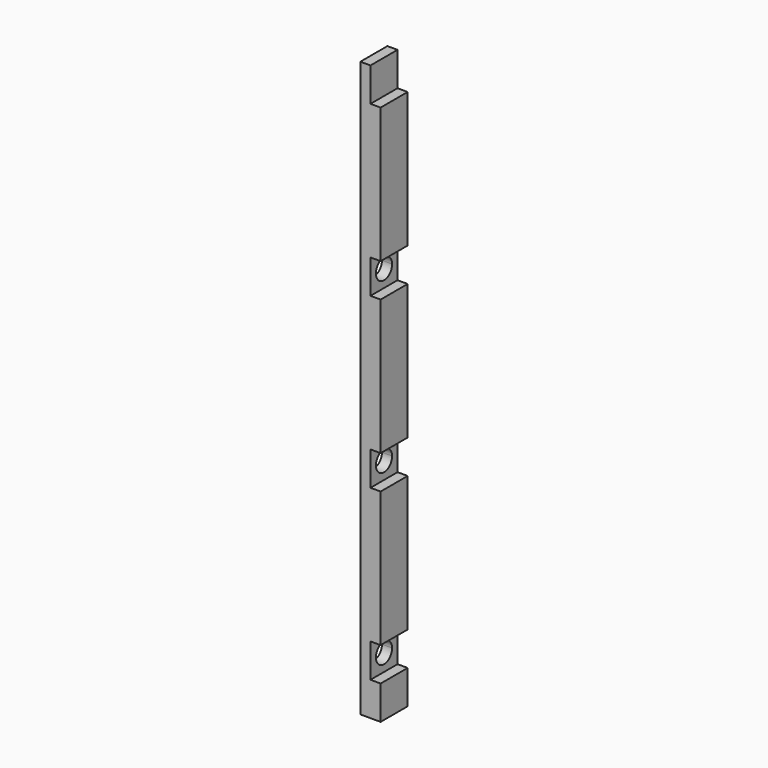
from build123d import *

# Parameters (mm, degrees)
F0_W     = 31.75
F0_H     = 539.75
F1_DEPTH = 19.05
F2_W     = 31.75
F2_H     = 31.75
F3_DEPTH = 9.525
F5_DEPTH = 25.4
F7_DEPTH = 25.4
F9_DEPTH = 25.4


with BuildPart() as f1:
    # F0 (on Right) → F1 (new body)
    with BuildSketch(Plane.YZ):
        Rectangle(F0_W, F0_H)
    extrude(amount=F1_DEPTH)

    # F2 (on face) → F3 (cut)
    with BuildSketch(Plane.YZ.offset(19.05)):
        with Locations((0, 254)):
            Rectangle(F2_W, F2_H)
        with Locations((0, -222.25)):
            Rectangle(F2_W, F2_H)
        with Locations((0, 95.25)):
            Rectangle(F2_W, F2_H)
        with Locations((0, -63.5)):
            Rectangle(F2_W, F2_H)
    extrude(amount=-F3_DEPTH, mode=Mode.SUBTRACT)

    # F4 (on face) → F5 (cut)
    with BuildSketch(Plane.YZ.offset(9.525)):
        with BuildLine():
            ThreePointArc((6.735192, 101.985192), (-6.735192, 101.985192), (-6.735192, 88.514808))
            Line((-6.735192, 88.514808), (6.735192, 101.985192))
        make_face()
        with BuildLine():
            Line((6.735192, 101.985192), (-6.735192, 88.514808))
            ThreePointArc((-6.735192, 88.514808), (3.64506, 86.450047), (9.525, 95.25))
            ThreePointArc((9.525, 95.25), (8.799953, 98.89506), (6.735192, 101.985192))
        make_face()
    extrude(amount=-F5_DEPTH, mode=Mode.SUBTRACT)

    # F6 (on face) → F7 (cut)
    with BuildSketch(Plane.YZ.offset(9.525)):
        with BuildLine():
            ThreePointArc((6.735192, -56.764808), (-6.735192, -56.764808), (-6.735192, -70.235192))
            Line((-6.735192, -70.235192), (6.735192, -56.764808))
        make_face()
        with BuildLine():
            Line((6.735192, -56.764808), (-6.735192, -70.235192))
            ThreePointArc((-6.735192, -70.235192), (3.64506, -72.299953), (9.525, -63.5))
            ThreePointArc((9.525, -63.5), (8.799953, -59.85494), (6.735192, -56.764808))
        make_face()
    extrude(amount=-F7_DEPTH, mode=Mode.SUBTRACT)

    # F8 (on face) → F9 (cut)
    with BuildSketch(Plane.YZ.offset(9.525)):
        with BuildLine():
            ThreePointArc((6.735192, -215.514808), (-6.735192, -215.514808), (-6.735192, -228.985192))
            Line((-6.735192, -228.985192), (6.735192, -215.514808))
        make_face()
        with BuildLine():
            Line((6.735192, -215.514808), (-6.735192, -228.985192))
            ThreePointArc((-6.735192, -228.985192), (3.64506, -231.049953), (9.525, -222.25))
            ThreePointArc((9.525, -222.25), (8.799953, -218.60494), (6.735192, -215.514808))
        make_face()
    extrude(amount=-F9_DEPTH, mode=Mode.SUBTRACT)


solid = f1.part
